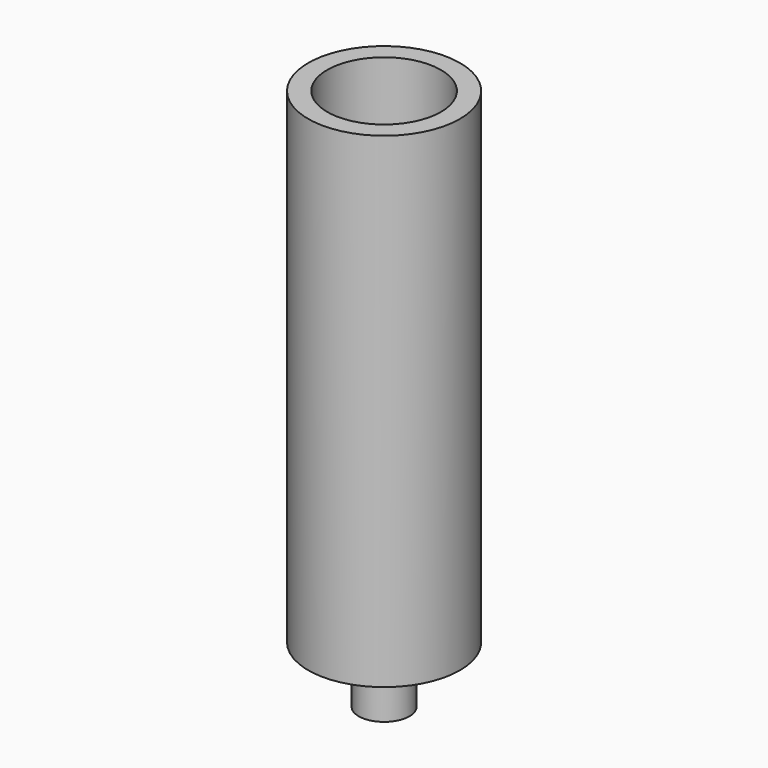
from build123d import *

# Parameters (mm, degrees)
F0_R     = 20
F0_R_2   = 15
F1_DEPTH = 126
F2_R     = 20
F3_DEPTH = 2
F4_R     = 6.692615
F4_R_2   = 3.950799
F5_DEPTH = 15


with BuildPart() as f1:
    # F0 (on Top) → F1 (new body)
    with BuildSketch(Plane.XY):
        Circle(F0_R)
        Circle(F0_R_2, mode=Mode.SUBTRACT)
    extrude(amount=F1_DEPTH)

    # F2 (on face) → F3 (join)
    with BuildSketch(Plane(origin=(0, 0, 0), x_dir=(1, 0, 0), z_dir=(0, 0, -1))):
        Circle(F2_R)
    extrude(amount=F3_DEPTH)

    # F4 (on face) → F5 (join)
    with BuildSketch(Plane(origin=(0, 0, -2), x_dir=(1, 0, 0), z_dir=(0, 0, -1))):
        Circle(F4_R)
        Circle(F4_R_2, mode=Mode.SUBTRACT)
    extrude(amount=F5_DEPTH)


solid = f1.part
